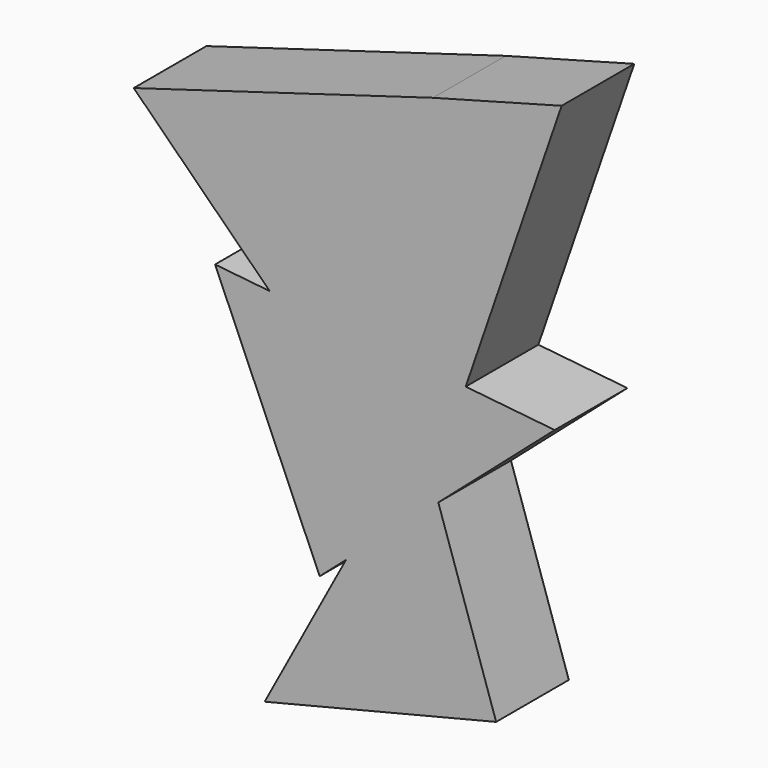
from build123d import *

# Parameters (mm, degrees)
F1_DEPTH = 20


with BuildPart() as f1:
    # F0 (on Front) → F1 (new body)
    with BuildSketch(Plane.XZ):
        Polygon((0, -4.78173), (-16.802281, 16.61918), (-25.650827, 25.3713), (-37.688062, 26.623173), (-14.656468, -26.31958), (-8.858471, -21.258901), align=None)
        Polygon((-25.650827, 25.3713), (-16.802281, 16.61918), (0, -4.78173), (-8.858471, -21.258901), (11.46337, -3.52134), (10.295821, 0), (17.490609, 20.884591), align=None)
        Polygon((-55.597428, 54.991562), (-25.650827, 25.3713), (17.490609, 20.884591), (38.609326, 82.186714), (10.295821, 74.528098), align=None)
        Polygon((37.08984, 18.846272), (17.490609, 20.884591), (10.295821, 0), (11.46337, -3.52134), align=None)
        Polygon((11.46337, -3.52134), (-8.858471, -21.258901), (-26.769133, -54.573569), (24.195176, -41.920602), align=None)
    extrude(amount=F1_DEPTH)


solid = f1.part
